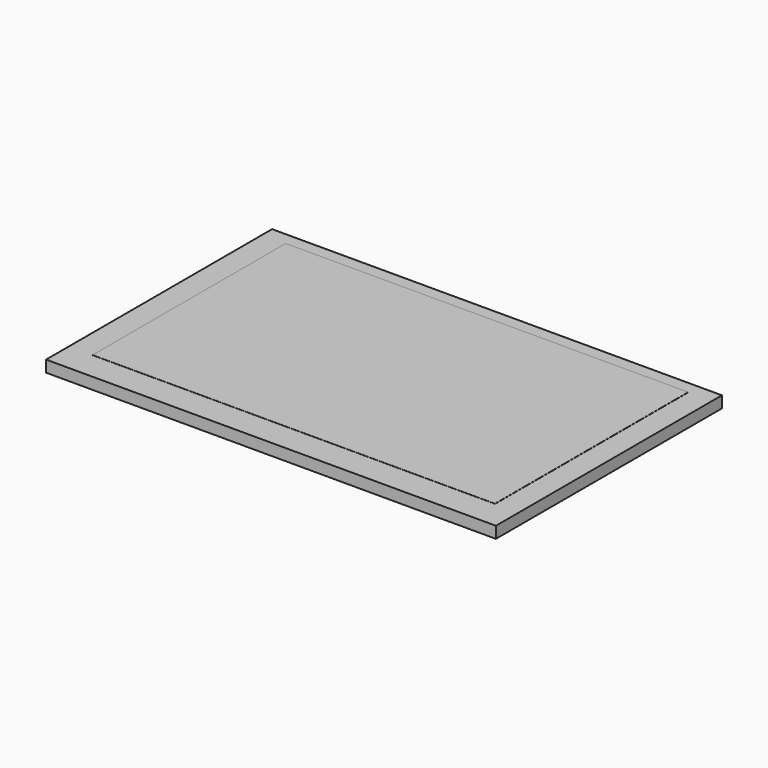
from build123d import *

# Parameters (mm, degrees)
F0_W     = 120.7
F0_H     = 75.8
F0_W_2   = 108
F0_H_2   = 64.8
F1_DEPTH = 3.1
F2_DEPTH = 3.14


with BuildPart() as f1:
    # F0 (on Top) → F1 (new body)
    with BuildSketch(Plane.XY):
        Rectangle(F0_W, F0_H)
        with Locations((0, 2.13)):
            Rectangle(F0_W_2, F0_H_2, mode=Mode.SUBTRACT)
        with Locations((0, 2.13)):
            Rectangle(F0_W_2, F0_H_2)
    extrude(amount=F1_DEPTH)


with BuildPart() as f2:
    # F0 (on Top) → F2 (new body)
    with BuildSketch(Plane.XY):
        with Locations((0, 2.13)):
            Rectangle(F0_W_2, F0_H_2)
    extrude(amount=F2_DEPTH)


solid = Compound([f1.part, f2.part])
